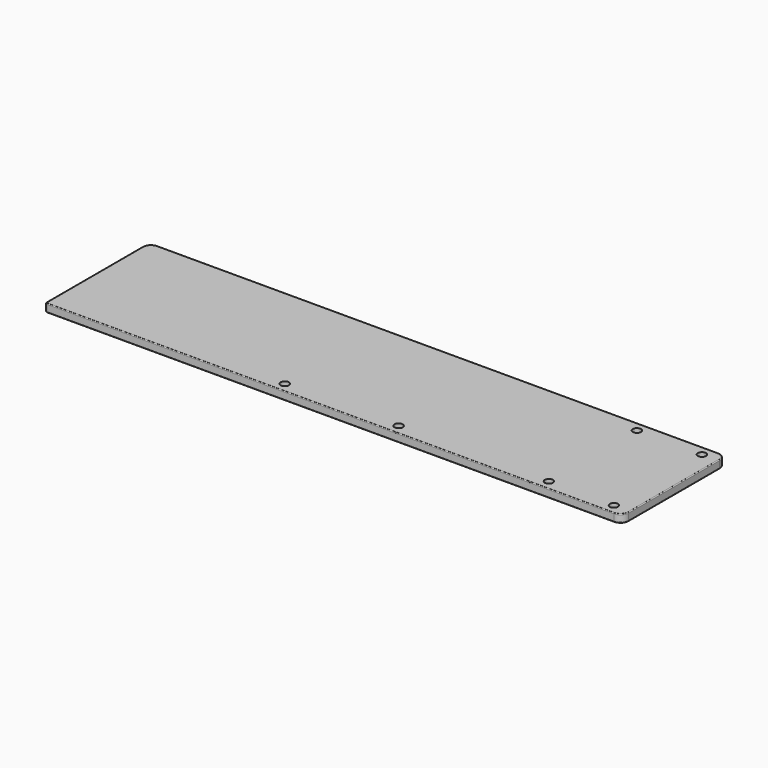
from build123d import *

# Parameters (mm, degrees)
F1_DEPTH = 5
F2_R     = 0.5
F3_R     = 2.5
F4_DEPTH = 25
F5_R     = 2.55
F6_DEPTH = 25


with BuildPart() as f1:
    # F0 (on Top) → F1 (new body)
    with BuildSketch(Plane.XY):
        with BuildLine():
            ThreePointArc((0, 1), (0.292893, 0.292893), (1, 0))
            Line((1, 0), (350, 0))
            ThreePointArc((350, 0), (353.535534, 1.464466), (355, 5))
            Line((355, 5), (355, 75))
            ThreePointArc((355, 75), (353.535534, 78.535534), (350, 80))
            Line((350, 80), (5, 80))
            ThreePointArc((5, 80), (1.464466, 78.535534), (0, 75))
            Line((0, 75), (0, 1))
        make_face()
    extrude(amount=F1_DEPTH)

    # F2
    f2_edges = [f1.edges().sort_by_distance(p)[0] for p in [
        (0, 38, 5),
        (0.292893, 0.292893, 5),
        (175.5, 0, 5),
        (353.535534, 1.464466, 5),
        (355, 40, 5),
        (353.535534, 78.535534, 5),
        (177.5, 80, 5),
        (1.464466, 78.535534, 5),
        (0, 38, 0),
        (0.292893, 0.292893, 0),
        (175.5, 0, 0),
        (353.535534, 1.464466, 0),
        (355, 40, 0),
        (353.535534, 78.535534, 0),
        (177.5, 80, 0),
        (1.464466, 78.535534, 0),
    ]]
    fillet(f2_edges, radius=F2_R)

    # F3 (on face) → F4 (cut)
    with BuildSketch(Plane.XY.offset(5)):
        with Locations((345, 73.85)):
            Circle(F3_R)
        with Locations((345, 6.15)):
            Circle(F3_R)
        with Locations((305, 73.85)):
            Circle(F3_R)
        with Locations((305, 6.15)):
            Circle(F3_R)
    extrude(amount=-F4_DEPTH, mode=Mode.SUBTRACT)

    # F5 (on face) → F6 (cut)
    with BuildSketch(Plane.XY.offset(5)):
        with Locations((142.5, 6.15)):
            Circle(F5_R)
        with Locations((212.5, 6.15)):
            Circle(F5_R)
    extrude(amount=-F6_DEPTH, mode=Mode.SUBTRACT)


solid = f1.part
